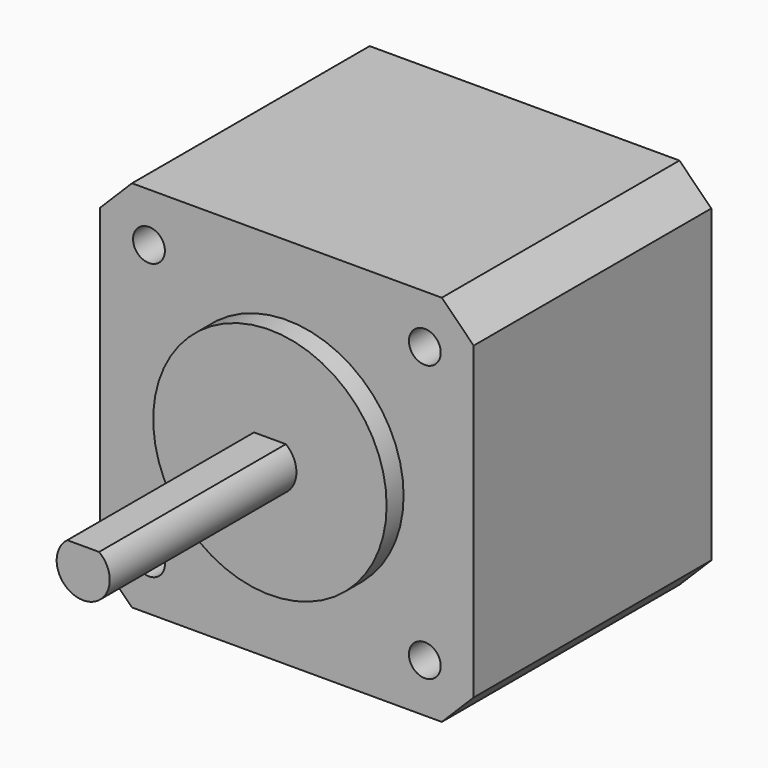
from build123d import *

# Parameters (mm, degrees)
F0_W     = 35.2
F0_H     = 35.2
F1_DEPTH = 28
F2_SIZE  = 3
F4_DEPTH = 24
F5_R     = 11
F6_DEPTH = 2
F7_R     = 1.5
F8_DEPTH = 25


with BuildPart() as f1:
    # F0 (on Front) → F1 (new body)
    with BuildSketch(Plane.XZ):
        Rectangle(F0_W, F0_H)
    extrude(amount=F1_DEPTH)

    # F2
    f2_edges = [f1.edges().sort_by_distance(p)[0] for p in [
        (-17.6, -14, 17.6),
        (-17.6, -14, -17.6),
        (17.6, -14, -17.6),
        (17.6, -14, 17.6),
    ]]
    chamfer(f2_edges, length=F2_SIZE)

    # F3 (on face) → F4 (join)
    with BuildSketch(Plane.XZ.offset(28)):
        with BuildLine():
            Line((1.5, 2), (-1.5, 2))
            ThreePointArc((-1.5, 2), (0, -2.5), (1.5, 2))
        make_face()
    extrude(amount=F4_DEPTH)

    # F5 (on face) → F6 (join)
    with BuildSketch(Plane.XZ.offset(28)):
        Circle(F5_R)
    extrude(amount=F6_DEPTH)

    # F7 (on face) → F8 (cut)
    with BuildSketch(Plane.XZ.offset(28)):
        with Locations((-13, 13)):
            Circle(F7_R)
        with Locations((13, 13)):
            Circle(F7_R)
        with Locations((13, -13)):
            Circle(F7_R)
        with Locations((-13, -13)):
            Circle(F7_R)
    extrude(amount=-F8_DEPTH, mode=Mode.SUBTRACT)


solid = f1.part
